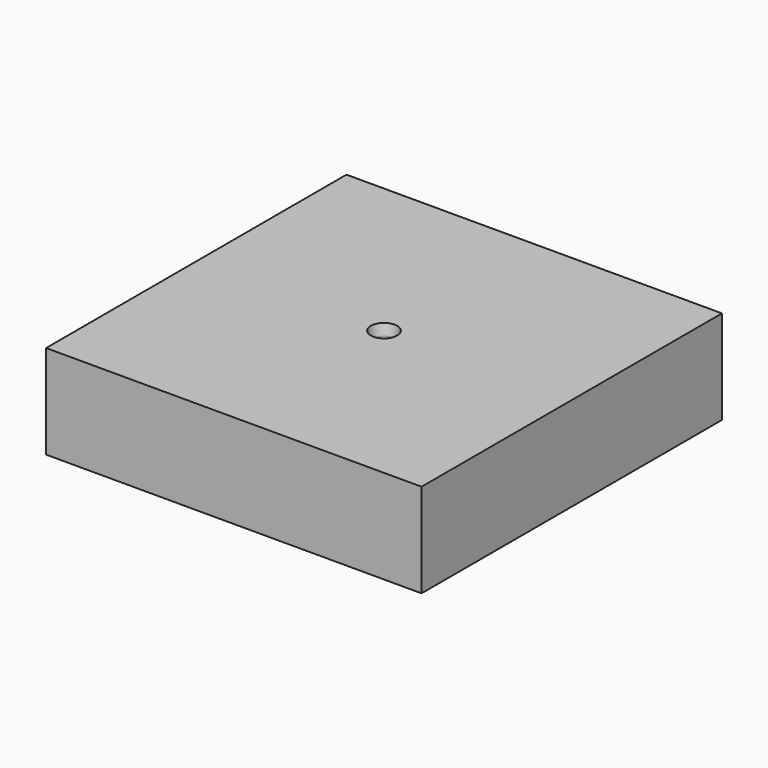
from build123d import *

# Parameters (mm, degrees)
F0_W     = 100
F0_H     = 100
F1_DEPTH = 25
F2_R     = 3
F3_DEPTH = 7
F4_R     = 1.75
F5_DEPTH = 25


with BuildPart() as f1:
    # F0 (on Top) → F1 (new body)
    with BuildSketch(Plane.XY):
        Rectangle(F0_W, F0_H)
    extrude(amount=F1_DEPTH)

    # F2 (on face) → F3 (cut)
    with BuildSketch(Plane.XY.offset(25)):
        Circle(F2_R)
    extrude(amount=-F3_DEPTH, mode=Mode.SUBTRACT)

    # F4 (on face) → F5 (cut)
    with BuildSketch(Plane.XY.offset(18)):
        Circle(F4_R)
    extrude(amount=-F5_DEPTH, mode=Mode.SUBTRACT)

    # F6 (on Right) → F7 (revolve, cut)
    with BuildSketch(Plane.YZ):
        Polygon((0, 18), (0, 25), (-3.5, 25), (-2.265711, 18), align=None)
    revolve(axis=Axis((0, 0, 21.5), (0, 0, 1)), mode=Mode.SUBTRACT)


solid = f1.part
